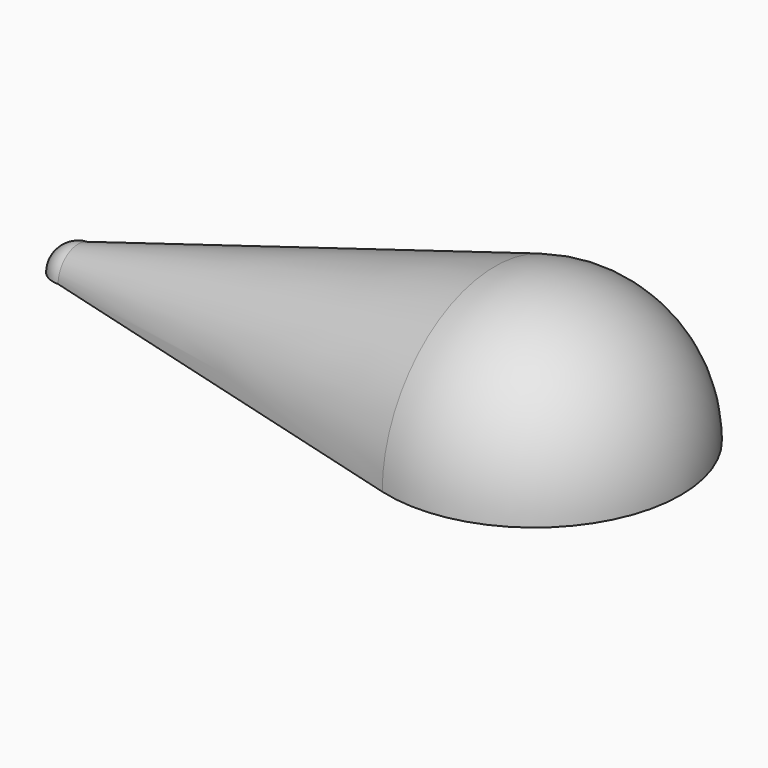
from build123d import *

# Parameters (mm, degrees)
F1_ANGLE_BACK = 90
F1_ANGLE      = 180


with BuildPart() as f1:
    # F0 (on Front) → F1 (revolve)
    with BuildSketch(Plane.XZ, mode=Mode.PRIVATE) as f1_sk:
        with BuildLine():
            Line((-3, 0), (72, 0))
            ThreePointArc((72, 0), (65.0866339896, 13.9346037177), (49.8087793406, 16.8594913543))
            Line((49.8087793406, 16.8594913543), (0, 3))
            ThreePointArc((0, 3), (-2.1213203436, 2.1213203436), (-3, 0))
        make_face()
    revolve(f1_sk.sketch.rotate(Axis((34.5, 0, 0), (1, 0, 0)), -F1_ANGLE_BACK), axis=Axis((34.5, 0, 0), (1, 0, 0)), revolution_arc=F1_ANGLE)


solid = f1.part
